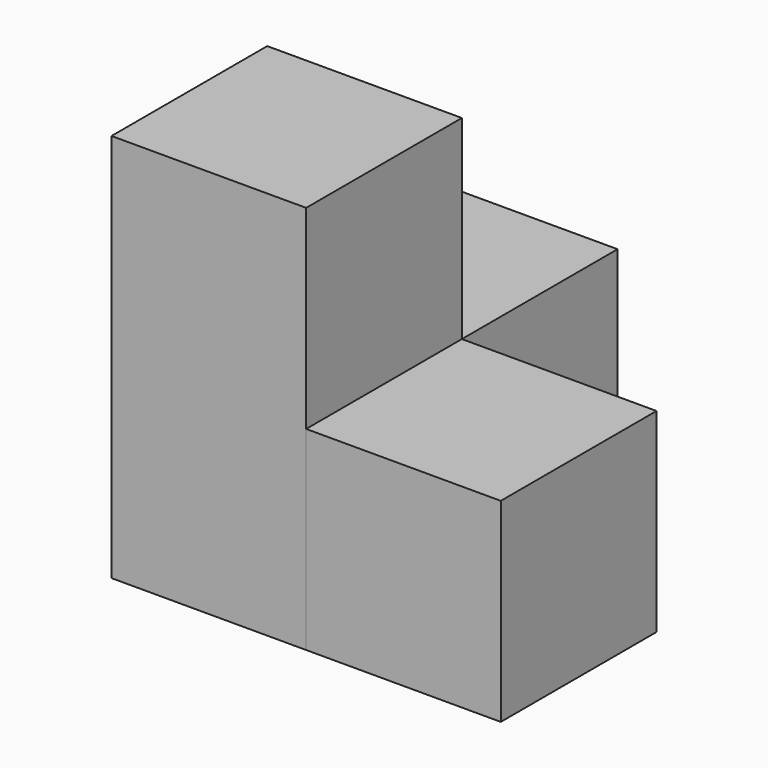
from build123d import *

# Parameters (mm, degrees)
BOX_W        = 10
BOX_H        = 10
BOX_DEPTH    = 20
BOX001_W     = 10
BOX001_H     = 10
BOX001_DEPTH = 10
BOX002_W     = 10
BOX002_H     = 10
BOX002_DEPTH = 10


with BuildPart() as cube:
    # Box → Box (new body)
    with BuildSketch(Plane.XY):
        with Locations((5, 5)):
            Rectangle(BOX_W, BOX_H)
    extrude(amount=BOX_DEPTH)


with BuildPart() as cube001:
    # Box001 → Box001 (new body)
    with BuildSketch(Plane(origin=(0, 10, 0), x_dir=(1, 0, 0), z_dir=(0, 0, 1))):
        with Locations((5, 5)):
            Rectangle(BOX001_W, BOX001_H)
    extrude(amount=BOX001_DEPTH)


with BuildPart() as cube002:
    # Box002 → Box002 (new body)
    with BuildSketch(Plane(origin=(10, 0, 0), x_dir=(1, 0, 0), z_dir=(0, 0, 1))):
        with Locations((5, 5)):
            Rectangle(BOX002_W, BOX002_H)
    extrude(amount=BOX002_DEPTH)


solid = Compound([cube.part, cube001.part, cube002.part])
